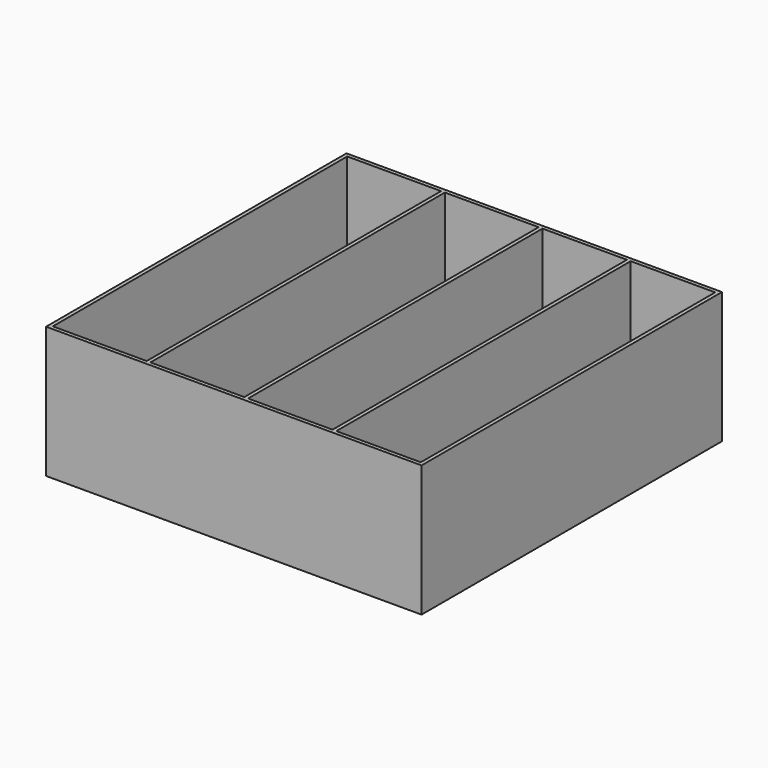
from build123d import *

# Parameters (mm, degrees)
F0_W     = 200
F0_H     = 200
F1_DEPTH = 70
F2_T     = -2
F3_W     = 2
F3_H     = 196
F4_DEPTH = 68


with BuildPart() as f1:
    # F0 (on Top) → F1 (new body)
    with BuildSketch(Plane.XY):
        with Locations((-7.9974851012, -33.8844692809)):
            Rectangle(F0_W, F0_H)
    extrude(amount=F1_DEPTH)

    # F2
    f2_openings = [f1.faces().sort_by_distance(p)[0] for p in [
        (-7.997485, -33.884469, 70),
    ]]
    offset(amount=F2_T, openings=f2_openings)

    # F3 (on face) → F4 (join)
    with BuildSketch(Plane.XY.offset(2)):
        with Locations((-54.9974851012, -33.8844692809)):
            Rectangle(F3_W, F3_H)
        with Locations((-2.9974851012, -33.8844692809)):
            Rectangle(F3_W, F3_H)
        with Locations((44.0025148988, -33.8844692809)):
            Rectangle(F3_W, F3_H)
    extrude(amount=F4_DEPTH)


solid = f1.part
